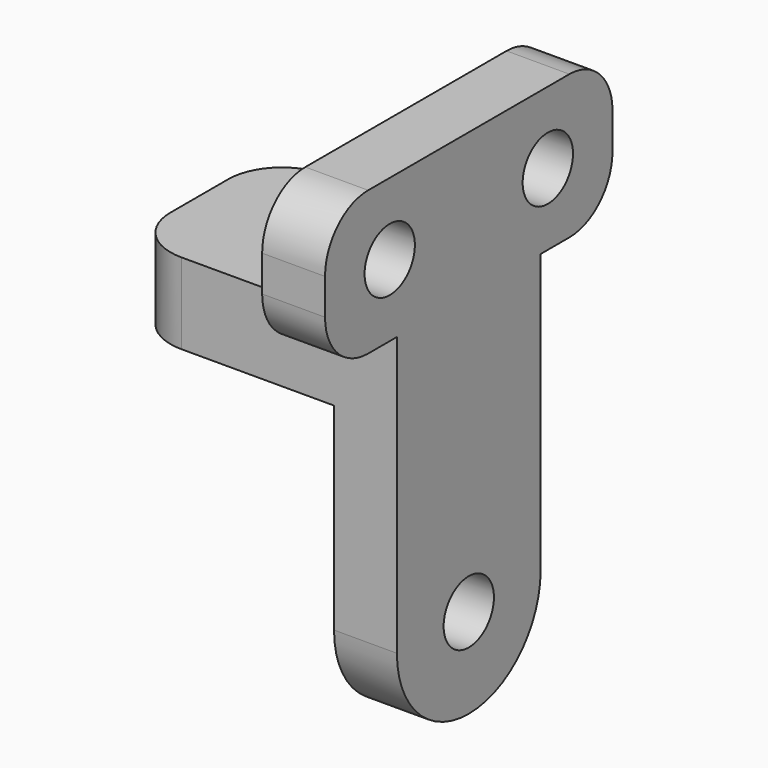
from build123d import *

# Parameters (mm, degrees)
SKETCH023_R              = 1.75
PAD024_DEPTH             = 40
PAD025_DEPTH             = 70
FILLET011_R              = 3
CLONE136_PLACEMENT_ANGLE = 180


with BuildPart() as pad024:
    # Sketch023 → Pad024 (new body)
    with BuildSketch(Plane(origin=(-50, 0, 0), x_dir=(0, -1, 0), z_dir=(-1, 0, 0))):
        with BuildLine():
            ThreePointArc((-5, 18), (1e-05, 13), (5, 18.000021))
            Line((5, 33.500021), (5, 18.000021))
            Line((10, 33.500021), (5, 33.500021))
            Line((10, 41.5), (10, 33.500021))
            Line((-10, 41.5), (10, 41.5))
            Line((-10, 33.5), (-10, 41.5))
            Line((-5, 33.5), (-10, 33.5))
            Line((-5, 18), (-5, 33.5))
        make_face()
        with Locations((-5.5, 37.5)):
            Circle(SKETCH023_R, mode=Mode.SUBTRACT)
        with Locations((5.5, 37.5)):
            Circle(SKETCH023_R, mode=Mode.SUBTRACT)
        with Locations((0, 18)):
            Circle(SKETCH023_R, mode=Mode.SUBTRACT)
    extrude(amount=-PAD024_DEPTH)


with BuildPart() as clone_of_support003:
    # Sketch022 → Pad025 (new body)
    with BuildSketch(Plane.XZ.offset(40)):
        Polygon((-31.5, 12), (-35, 12), (-35, 53.5), (-31.5, 53.5), (-31.5, 33.5), (-20, 33.5), (-20, 29), (-31.5, 29), align=None)
    extrude(amount=-PAD025_DEPTH)

    # Common001: intersect Pad024
    add(pad024.part, mode=Mode.INTERSECT)

    # Fillet011
    fillet011_edges = [clone_of_support003.edges().sort_by_distance(p)[0] for p in [
        (-20, -5, 31.25),
        (-20, 5, 31.25),
        (-33.25, -10, 33.500021),
        (-33.25, 10, 33.5),
        (-33.25, -10, 41.5),
        (-33.25, 10, 41.5),
    ]]
    fillet(fillet011_edges, radius=FILLET011_R)


with BuildPart() as clone_of_support003_1:
    # Clone136 placement: moved
    add(clone_of_support003.part.rotate(Axis((0, 0, 0), (0, 0, 1)), CLONE136_PLACEMENT_ANGLE))


solid = clone_of_support003_1.part
